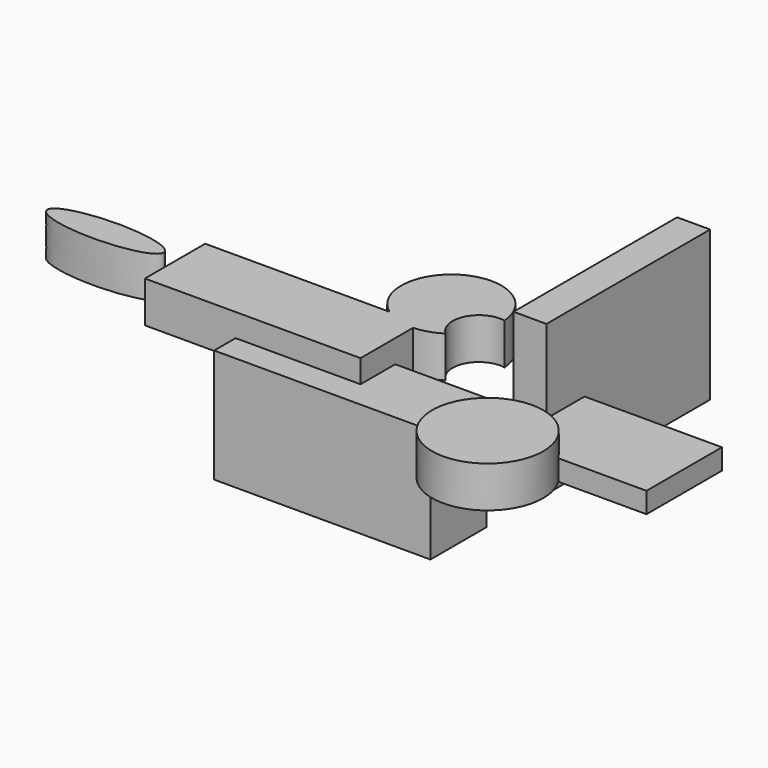
from build123d import *

# Parameters (mm, degrees)
F0_W      = 133.108183
F0_H      = 69.966845
F1_DEPTH  = 43.18
F2_W      = 84.539909
F2_H      = 58.032023
F3_DEPTH  = 12.7
F4_W      = 125.876807
F4_H      = 92.185639
F5_DEPTH  = 20.32
F6_W      = 132.691223
F6_H      = 46.35296
F7_DEPTH  = 25.4
F9_DEPTH  = 25.4
F10_R     = 34.215054
F11_DEPTH = 25.4
F13_DEPTH = 25.4


with BuildPart() as f1:
    # F0 (on Front) → F1 (new body)
    with BuildSketch(Plane.XZ):
        with Locations((-47.50736, -23.75368)):
            Rectangle(F0_W, F0_H)
    extrude(amount=F1_DEPTH)

    # F6 (on Top) → F7 (join)
    with BuildSketch(Plane.XY):
        with Locations((-103.522932, -3.523823)):
            Rectangle(F6_W, F6_H)
    extrude(amount=F7_DEPTH)

    # F8 (on Top) → F9 (join)
    with BuildSketch(Plane.XY):
        with BuildLine():
            ThreePointArc((-21.222473, 18.872858), (-25.15801, 38.184203), (-7.566157, 47.069203))
            ThreePointArc((-7.566157, 47.069203), (-66.006886, 57.96851), (-21.222473, 18.872858))
        make_face()
    extrude(amount=F9_DEPTH)


with BuildPart() as f3:
    # F2 (on Top) → F3 (new body)
    with BuildSketch(Plane.XY):
        with Locations((98.869239, -0.607235)):
            Rectangle(F2_W, F2_H)
    extrude(amount=F3_DEPTH)

    # F10 (on Top) → F11 (join)
    with BuildSketch(Plane.XY):
        with Locations((57.709131, -47.504254)):
            Circle(F10_R)
    extrude(amount=F11_DEPTH)


with BuildPart() as f5:
    # F4 (on Right) → F5 (new body)
    with BuildSketch(Plane.YZ):
        with Locations((107.434768, -12.406099)):
            Rectangle(F4_W, F4_H)
    extrude(amount=F5_DEPTH)


with BuildPart() as f13:
    # F12 (on Top) → F13 (new body)
    with BuildSketch(Plane.XY):
        with BuildLine():
            add(Edge.make_bspline(
                [(-251.233459, 0), (-251.233459, -16.642938), (-197.538249, -8.321469), (-143.84304, 0), (-197.538249, 8.321469), (-251.233459, 16.642938), (-251.233459, 0)],
                knots=[0, 0, 0, 2.094395, 2.094395, 4.18879, 4.18879, 6.283185, 6.283185, 6.283185], degree=2, weights=[1, 0.5, 1, 0.5, 1, 0.5, 1]))
        make_face()
    extrude(amount=F13_DEPTH)


solid = Compound([f1.part, f3.part, f5.part, f13.part])
